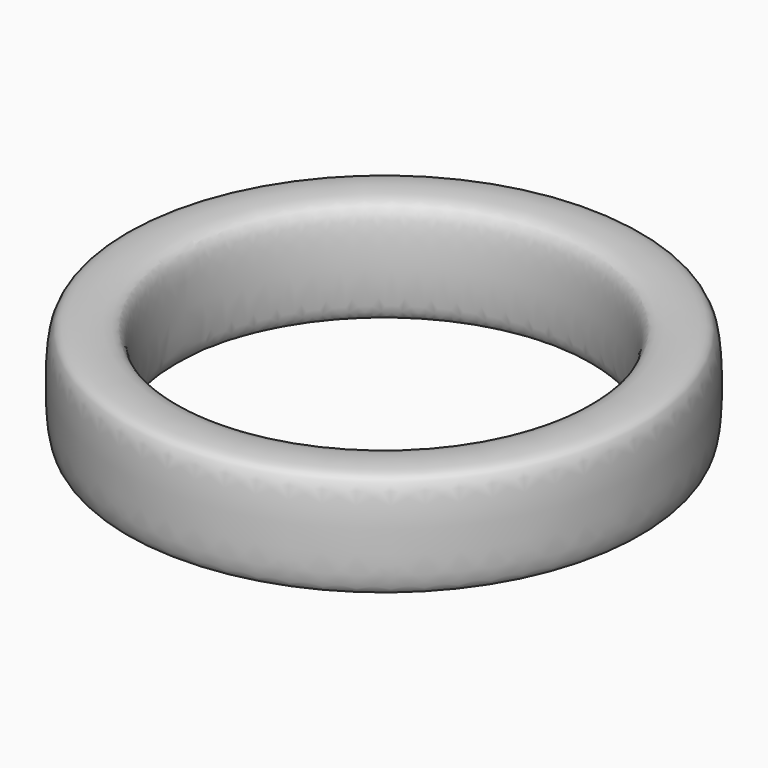
from build123d import *

# Parameters (mm, degrees)
SKETCH_W    = 3
SKETCH_H    = 5
SKETCH001_W = 3
SKETCH001_H = 5


with BuildPart() as part:
    # Sketch → Revolution (revolve)
    with BuildSketch(Plane.XZ):
        with Locations((-10.5, 0)):
            Rectangle(SKETCH_W, SKETCH_H)
    revolve(axis=Axis((0, 0, 0), (0, 0, 1)))

    # Sketch001 → Groove (revolve, cut)
    with BuildSketch(Plane.XZ):
        with Locations((-10.5, 0)):
            Rectangle(SKETCH001_W, SKETCH001_H)
        with BuildLine():
            add(Edge.make_bspline(
                [(-9, 0), (-9, 2), (-9.5, 2.5), (-11.5, 2.5), (-12, 2), (-12, -2), (-11.5, -2.5), (-9.5, -2.5), (-9, -2), (-9, 0)],
                knots=[0, 0, 0, 0, 0.142857, 0.285714, 0.428571, 0.571429, 0.714286, 0.857143, 1, 1, 1, 1], degree=3))
        make_face(mode=Mode.SUBTRACT)
    revolve(axis=Axis((0, 0, 0), (0, 0, 1)), mode=Mode.SUBTRACT)


solid = part.part
